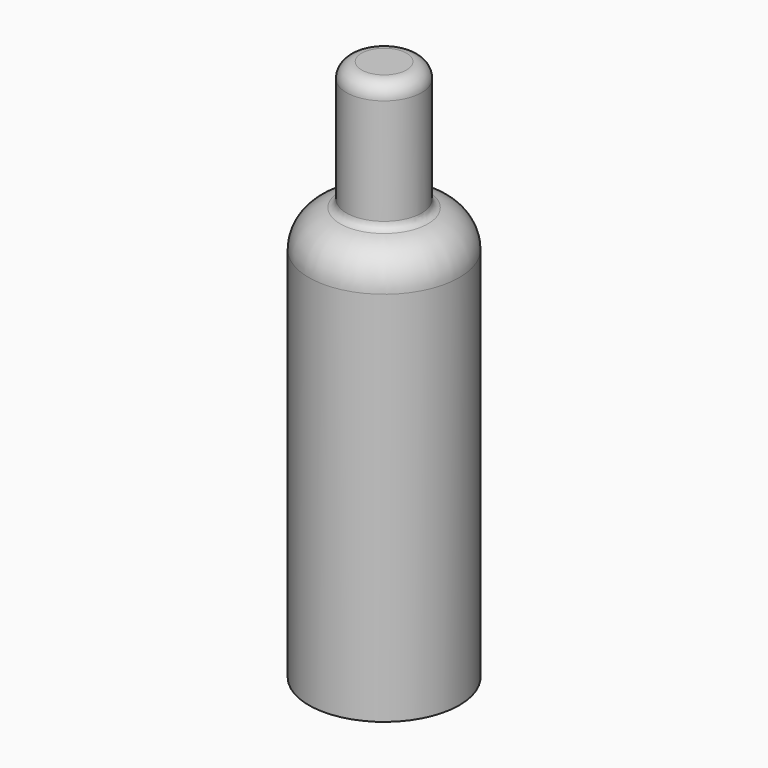
from build123d import *

# Parameters (mm, degrees)
F0_R     = 25.4
F1_DEPTH = 69.85
F2_R     = 12.7
F3_R     = 12.6922098365
F4_DEPTH = 43.18
F5_R     = 5.08
F6_R     = 2.54


with BuildPart() as f1:
    # F0 (on Top) → F1 (new body, symmetric)
    with BuildSketch(Plane.XY):
        Circle(F0_R)
    extrude(amount=F1_DEPTH, both=True)

    # F2
    f2_edges = [f1.edges().sort_by_distance(p)[0] for p in [
        (-25.4, 0, 69.85),
    ]]
    fillet(f2_edges, radius=F2_R)

    # F3 (on face) → F4 (join)
    with BuildSketch(Plane.XY.offset(69.85)):
        Circle(F3_R)
    extrude(amount=F4_DEPTH)

    # F5
    f5_edges = [f1.edges().sort_by_distance(p)[0] for p in [
        (-12.69221, 0, 113.03),
    ]]
    fillet(f5_edges, radius=F5_R)

    # F6
    f6_edges = [f1.edges().sort_by_distance(p)[0] for p in [
        (-12.7, 0, 69.85),
        (-12.69221, 0, 69.85),
    ]]
    fillet(f6_edges, radius=F6_R)


solid = f1.part
